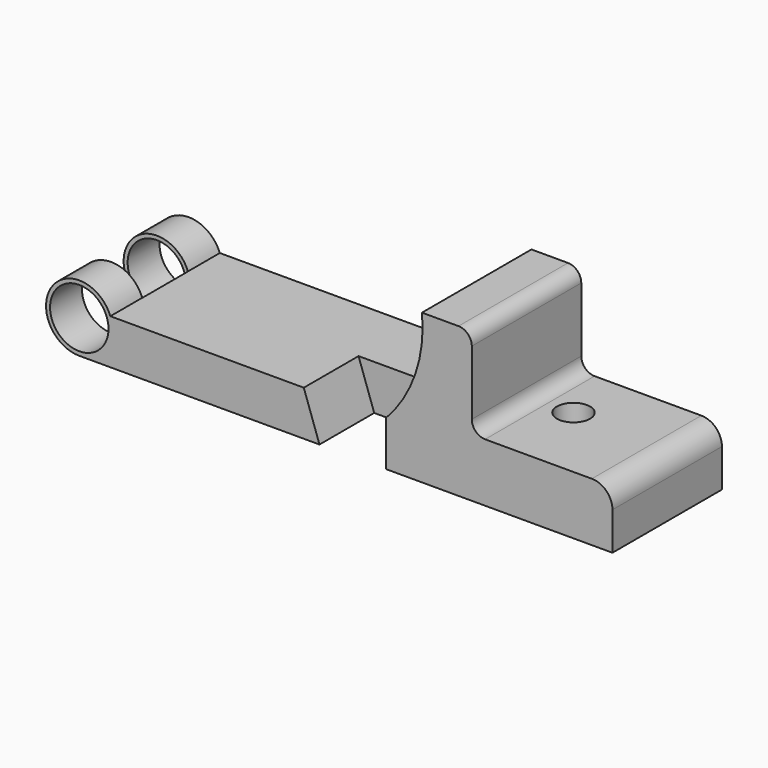
from build123d import *

# Parameters (mm, degrees)
F0_R     = 11.176
F1_DEPTH = 26.162
F2_DEPTH = 26.163
F3_R     = 12.739133
F4_DEPTH = 10.922
F5_R     = 6.35
F6_DEPTH = 22.353


with BuildPart() as f1:
    # F0 (on Front) → F1 (new body, symmetric)
    with BuildSketch(Plane.XZ):
        with BuildLine():
            Line((85.852, 4.49157), (11.879217, 4.49157))
            ThreePointArc((11.879217, 4.49157), (-10.448276, 7.219663), (0, -12.7))
            Line((0, -12.7), (91.8464, -12.7))
            Line((91.8464, -12.7), (85.852, 4.49157))
        make_face()
        Circle(F0_R, mode=Mode.SUBTRACT)
        Polygon((117.2464, 4.49157), (85.852, 4.49157), (91.8464, -12.7), (117.2464, -12.7), (117.2464, 1.780633), align=None)
        Polygon((117.2464, 1.780633), (117.2464, -12.7), (203.864659, -12.7), (203.859816, 1.780633), align=None)
        with BuildLine():
            ThreePointArc((131.0386, 44.45), (128.496139, 22.968067), (117.2464, 4.49157))
            Line((117.2464, 4.49157), (117.2464, 1.780633))
            Line((117.2464, 1.780633), (203.859816, 1.780633))
            ThreePointArc((203.859816, 1.780633), (201.552644, 7.34669), (195.985816, 9.652))
            Line((195.985816, 9.652), (155.1686, 9.652))
            ThreePointArc((155.1686, 9.652), (151.576498, 11.139898), (150.0886, 14.732))
            Line((150.0886, 14.732), (150.0886, 39.37))
            ThreePointArc((150.0886, 39.37), (148.600702, 42.962102), (145.0086, 44.45))
            Line((145.0086, 44.45), (131.0386, 44.45))
        make_face()
    extrude(amount=F1_DEPTH, both=True)

    # F0 (on Front) → F2 (cut, through all)
    with BuildSketch(Plane.XZ):
        Polygon((117.2464, 4.49157), (85.852, 4.49157), (91.8464, -12.7), (117.2464, -12.7), (117.2464, 1.780633), align=None)
    extrude(amount=F2_DEPTH, mode=Mode.SUBTRACT)

    # F3 (on Front) → F4 (cut, symmetric)
    with BuildSketch(Plane.XZ):
        Circle(F3_R)
    extrude(amount=F4_DEPTH, both=True, mode=Mode.SUBTRACT)

    # F5 (on face) → F6 (cut, through all)
    with BuildSketch(Plane.XY.offset(9.652)):
        with Locations((164.997816, 3.81)):
            Circle(F5_R)
    extrude(amount=-F6_DEPTH, mode=Mode.SUBTRACT)


solid = f1.part
